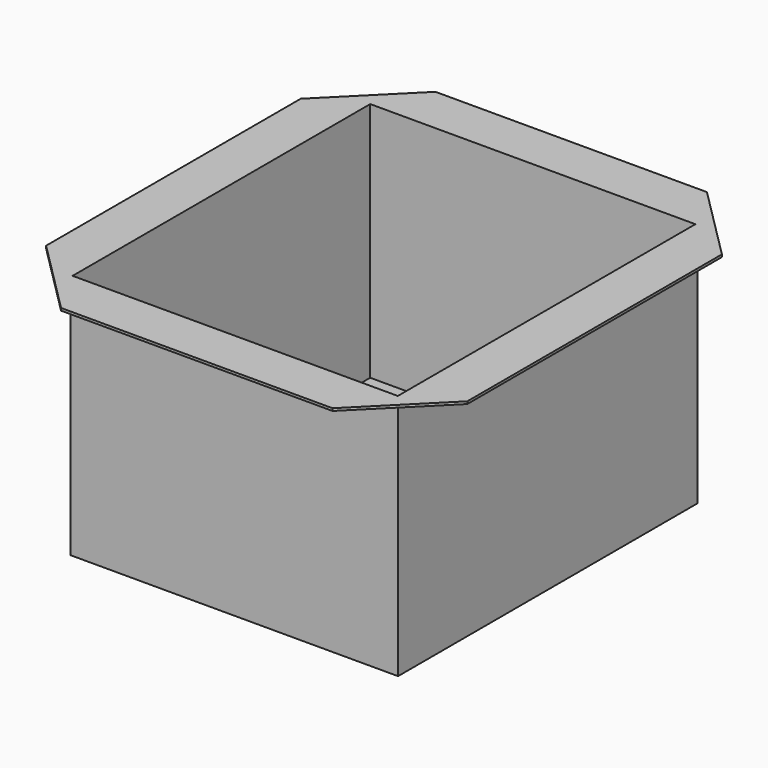
from build123d import *

# Parameters (mm, degrees)
F0_W     = 175
F0_H     = 200
F1_DEPTH = 130
F2_W     = 225
F2_H     = 250
F3_DEPTH = 1.3
F4_W     = 173.7
F4_H     = 198.7
F5_DEPTH = 128.7
F6_SIZE  = 40


with BuildPart() as f1:
    # F0 (on Top) → F1 (new body)
    with BuildSketch(Plane.XY):
        Rectangle(F0_W, F0_H)
    extrude(amount=F1_DEPTH)

    # F2 (on face) → F3 (join)
    with BuildSketch(Plane.XY.offset(130)):
        Rectangle(F2_W, F2_H)
    extrude(amount=F3_DEPTH)

    # F4 (on face) → F5 (cut)
    with BuildSketch(Plane.XY.offset(131.3)):
        Rectangle(F4_W, F4_H)
    extrude(amount=-F5_DEPTH, mode=Mode.SUBTRACT)

    # F6
    f6_edges = [f1.edges().sort_by_distance(p)[0] for p in [
        (112.5, -125, 130.65),
        (-112.5, -125, 130.65),
        (112.5, 125, 130.65),
        (-112.5, 125, 130.65),
    ]]
    chamfer(f6_edges, length=F6_SIZE)


solid = f1.part
